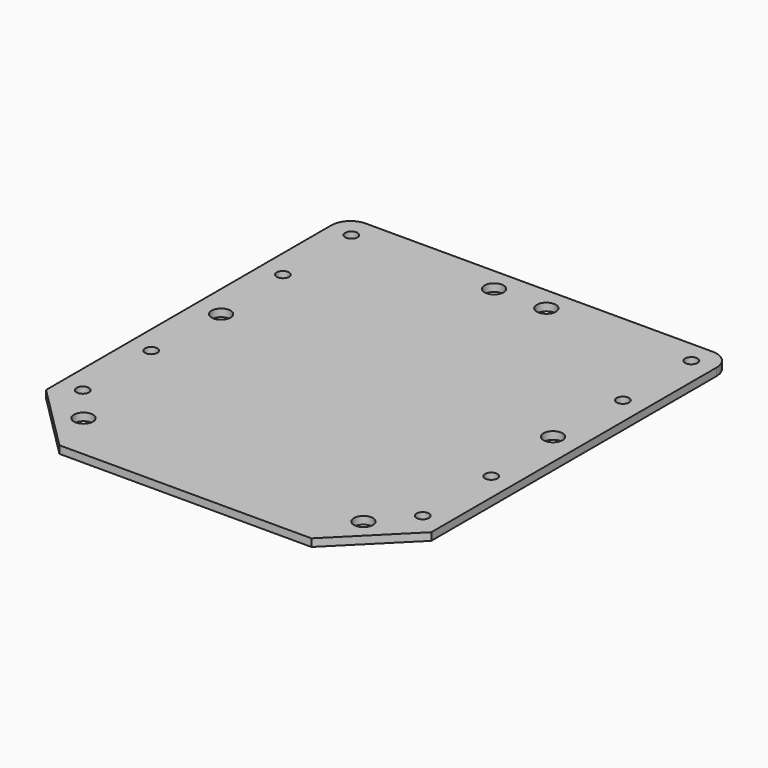
from build123d import *

# Parameters (mm, degrees)
SKETCH001_W   = 81
SKETCH001_H   = 93
PAD_DEPTH     = 1.6
CHAMFER_SIZE  = 14
FILLET_R      = 4
SKETCH002_R   = 1.3
HOLE_DEPTH    = 1.601
SKETCH003_R   = 2
HOLE001_DEPTH = 1.601
SKETCH004_R   = 2
HOLE002_DEPTH = 1.601


with BuildPart() as part:
    # Sketch001 → Pad (new body)
    with BuildSketch(Plane.XY):
        Rectangle(SKETCH001_W, SKETCH001_H)
    extrude(amount=-PAD_DEPTH)

    # Chamfer
    chamfer_edges = [part.edges().sort_by_distance(p)[0] for p in [
        (-40.5, -46.5, -0.8),
        (40.5, -46.5, -0.8),
    ]]
    chamfer(chamfer_edges, length=CHAMFER_SIZE)

    # Fillet
    fillet_edges = [part.edges().sort_by_distance(p)[0] for p in [
        (-40.5, 46.5, -0.8),
        (40.5, 46.5, -0.8),
    ]]
    fillet(fillet_edges, radius=FILLET_R)

    # Sketch002 (on Face2 of Fillet) → Hole (cut, through all)
    with BuildSketch(Plane.XY):
        with Locations((-35.75, 41.8)):
            Circle(SKETCH002_R)
        with Locations((-35.75, 23.8)):
            Circle(SKETCH002_R)
        with Locations((35.75, 41.8)):
            Circle(SKETCH002_R)
        with Locations((35.75, 23.8)):
            Circle(SKETCH002_R)
        with Locations((-35.75, -10.8)):
            Circle(SKETCH002_R)
        with Locations((-35.75, -28.8)):
            Circle(SKETCH002_R)
        with Locations((35.75, -28.8)):
            Circle(SKETCH002_R)
        with Locations((35.75, -10.8)):
            Circle(SKETCH002_R)
    extrude(amount=-HOLE_DEPTH, mode=Mode.SUBTRACT)

    # Sketch003 (on Face2 of Hole) → Hole001 (cut, through all)
    with BuildSketch(Plane.XY):
        with Locations((-5.5, 41.5)):
            Circle(SKETCH003_R)
        with Locations((5.5, 41.5)):
            Circle(SKETCH003_R)
        with Locations((-29.428932, -36.5)):
            Circle(SKETCH003_R)
        with Locations((29.428932, -36.5)):
            Circle(SKETCH003_R)
    extrude(amount=-HOLE001_DEPTH, mode=Mode.SUBTRACT)

    # Sketch004 (on Face2 of Hole001) → Hole002 (cut, through all)
    with BuildSketch(Plane.XY):
        with Locations((-34.9, 6.5)):
            Circle(SKETCH004_R)
        with Locations((34.9, 6.5)):
            Circle(SKETCH004_R)
    extrude(amount=-HOLE002_DEPTH, mode=Mode.SUBTRACT)


solid = part.part
